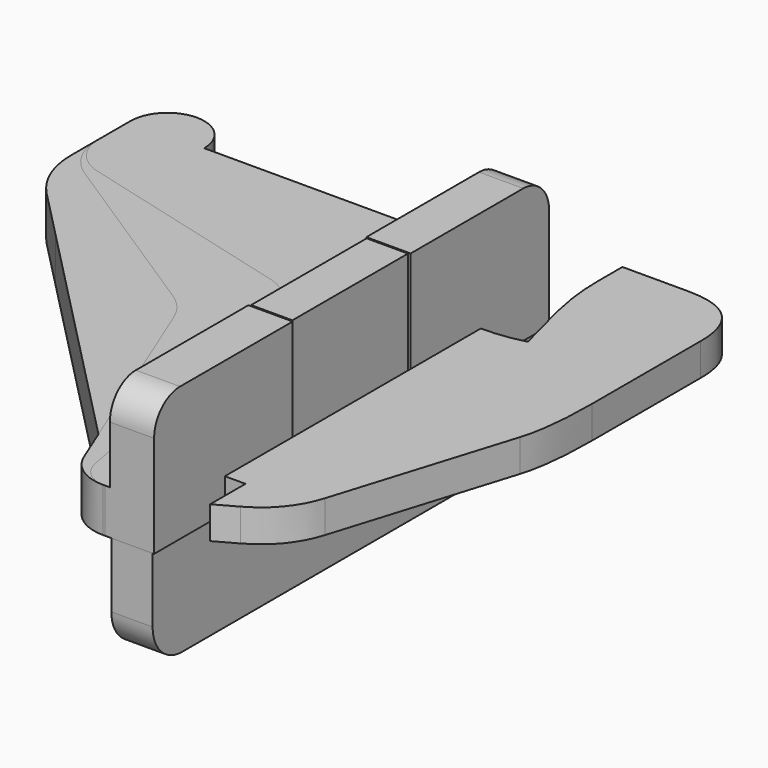
from build123d import *

# Parameters (mm, degrees)
PAD_DEPTH    = 2.2
SKETCH001_W  = 3
SKETCH001_H  = 11.75
PAD001_DEPTH = 6.9
FILLET_R     = 2.2
PAD002_DEPTH = 3
FILLET001_R  = 6
PAD003_DEPTH = 2.2
SKETCH004_W  = 3
SKETCH004_H  = 11.75
PAD004_DEPTH = 6.9
FILLET002_R  = 2.2
PAD005_DEPTH = 3
FILLET007_R  = 4
FILLET008_R  = 3
PAD006_DEPTH = 2.2
SKETCH007_W  = 3
SKETCH007_H  = 11.75
PAD007_DEPTH = 6.9
FILLET004_R  = 2.2
PAD008_DEPTH = 3
FILLET005_R  = 2
FILLET006_R  = 3
PAD009_START = 0.1
PAD009_DEPTH = 2.8
FILLET009_R  = 2.5


with BuildPart() as heavy:
    # Sketch → Pad (new body)
    with BuildSketch(Plane.XY):
        with BuildLine():
            Line((3, -16.6), (3, -6.6))
            Line((3, -6.6), (0, -6.6))
            Line((0, -6.6), (0, 0))
            Line((0, 0), (0, 5.15))
            Line((0, 5.15), (3, 5.15))
            Line((3, 5.15), (3, -0.65))
            ThreePointArc((3, -0.65), (4.462352, -0.561816), (5.9, -0.28))
            add(Edge.make_bspline(
                [(5.9, -0.28), (5.061626, 2.873724), (4.45, 4.820279), (4.45, 7.45)],
                knots=[0, 0, 0, 0, 1, 1, 1, 1], degree=3))
            Line((4.45, 7.45), (4.45, 9.55))
            Line((4.45, 9.55), (8.95, 9.55))
            add(Edge.make_bspline(
                [(8.95, 9.55), (13, 9.55), (13, 5.5)],
                knots=[0, 0, 0, 1, 1, 1], degree=2))
            Line((13, 5.5), (13, -3.7))
            add(Edge.make_bspline(
                [(13, -3.7), (13, -7.166449), (12.412182, -9.067731)],
                knots=[0, 0, 0, 1, 1, 1], degree=2))
            Line((12.412182, -9.067731), (8.72, -21.01))
            add(Edge.make_bspline(
                [(5.816198, -24.563372), (7.995686, -23.352775), (8.72, -21.01)],
                knots=[0, 0, 0, 1, 1, 1], degree=2))
            Line((5.816198, -24.563372), (4.4, -25.35))
            Line((4.4, -25.35), (4.4, -22.35))
            Line((4.4, -22.35), (3, -22.35))
            Line((3, -22.35), (3, -28.35))
            Line((3, -28.35), (0, -28.35))
            Line((0, -28.35), (0, -16.6))
            Line((0, -16.6), (3, -16.6))
        make_face()
    extrude(amount=PAD_DEPTH)

    # Sketch001 (on Face24 of Pad) → Pad001 (join)
    with BuildSketch(Plane.XY.offset(2.2)):
        with Locations((1.5, -22.475)):
            Rectangle(SKETCH001_W, SKETCH001_H)
        with Locations((1.5, -0.725)):
            Rectangle(SKETCH001_W, SKETCH001_H)
    extrude(amount=PAD001_DEPTH)

    # Fillet
    fillet_edges = [heavy.edges().sort_by_distance(p)[0] for p in [
        (1.5, 5.15, 9.1),
        (1.5, -28.35, 9.1),
    ]]
    fillet(fillet_edges, radius=FILLET_R)

    # Sketch002 → Pad002 (join)
    with BuildSketch(Plane.XY):
        with BuildLine():
            Line((0, 5.15), (-20.4, 5.15))
            ThreePointArc((-20.4, 5.15), (-22.9, 7.65), (-25.4, 5.15))
            Line((-25.4, 5.15), (-25.4, -2.35))
            Line((-20.4, -7.46811), (-25.4, -2.35))
            Line((-20.4, -7.46811), (0, -28.35))
            Line((0, 5.15), (0, -28.35))
        make_face()
    extrude(amount=PAD002_DEPTH)

    # Fillet001
    fillet001_edges = [heavy.edges().sort_by_distance(p)[0] for p in [
        (-25.4, -2.35, 1.5),
    ]]
    fillet(fillet001_edges, radius=FILLET001_R)


with BuildPart() as medium:
    # Sketch003 → Pad003 (new body)
    with BuildSketch(Plane.XY):
        with BuildLine():
            Line((3, -16.6), (3, -6.6))
            Line((3, -6.6), (0, -6.6))
            Line((0, -6.6), (0, 0))
            Line((0, 0), (0, 5.15))
            Line((0, 5.15), (3, 5.15))
            Line((3, 5.15), (3, -0.65))
            ThreePointArc((3, -0.65), (4.462352, -0.561816), (5.9, -0.28))
            add(Edge.make_bspline(
                [(5.9, -0.28), (5.061626, 2.873724), (4.45, 4.820279), (4.45, 7.45)],
                knots=[0, 0, 0, 0, 1, 1, 1, 1], degree=3))
            Line((4.45, 7.45), (4.45, 9.55))
            Line((4.45, 9.55), (8.95, 9.55))
            add(Edge.make_bspline(
                [(8.95, 9.55), (13, 9.55), (13, 5.5)],
                knots=[0, 0, 0, 1, 1, 1], degree=2))
            Line((13, 5.5), (13, -3.7))
            add(Edge.make_bspline(
                [(13, -3.7), (13, -7.166449), (12.412182, -9.067731)],
                knots=[0, 0, 0, 1, 1, 1], degree=2))
            Line((12.412182, -9.067731), (8.72, -21.01))
            add(Edge.make_bspline(
                [(5.816198, -24.563372), (7.995686, -23.352775), (8.72, -21.01)],
                knots=[0, 0, 0, 1, 1, 1], degree=2))
            Line((5.816198, -24.563372), (4.4, -25.35))
            Line((4.4, -25.35), (4.4, -22.35))
            Line((4.4, -22.35), (3, -22.35))
            Line((3, -22.35), (3, -28.35))
            Line((3, -28.35), (0, -28.35))
            Line((0, -28.35), (0, -16.6))
            Line((0, -16.6), (3, -16.6))
        make_face()
    extrude(amount=PAD003_DEPTH)

    # Sketch004 (on Face24 of Pad003) → Pad004 (join)
    with BuildSketch(Plane.XY.offset(2.2)):
        with Locations((1.5, -22.475)):
            Rectangle(SKETCH004_W, SKETCH004_H)
        with Locations((1.5, -0.725)):
            Rectangle(SKETCH004_W, SKETCH004_H)
    extrude(amount=PAD004_DEPTH)

    # Fillet002
    fillet002_edges = [medium.edges().sort_by_distance(p)[0] for p in [
        (1.5, 5.15, 9.1),
        (1.5, -28.35, 9.1),
    ]]
    fillet(fillet002_edges, radius=FILLET002_R)

    # Sketch005 → Pad005 (join)
    with BuildSketch(Plane.XY):
        with BuildLine():
            Line((0, 5.15), (-20.4, 5.15))
            ThreePointArc((-20.4, 5.15), (-22.9, 7.65), (-25.4, 5.15))
            Line((-25.4, 5.15), (-25.4, 0.15))
            Line((-20.4, -3.093091), (-25.4, 0.15))
            Line((-10.027719, -9.820741), (-20.4, -3.093091))
            Line((-2.5, -28.35), (-10.027719, -9.820741))
            Line((0, -28.35), (-2.5, -28.35))
            Line((0, 5.15), (0, -28.35))
        make_face()
    extrude(amount=PAD005_DEPTH)

    # Fillet007
    fillet007_edges = [medium.edges().sort_by_distance(p)[0] for p in [
        (-25.4, 0.15, 1.5),
        (-10.027719, -9.820741, 1.5),
    ]]
    fillet(fillet007_edges, radius=FILLET007_R)

    # Fillet008
    fillet008_edges = [medium.edges().sort_by_distance(p)[0] for p in [
        (-2.5, -28.35, 1.5),
    ]]
    fillet(fillet008_edges, radius=FILLET008_R)


with BuildPart() as light:
    # Sketch006 → Pad006 (new body)
    with BuildSketch(Plane.XY):
        with BuildLine():
            Line((3, -16.6), (3, -6.6))
            Line((3, -6.6), (0, -6.6))
            Line((0, -6.6), (0, 0))
            Line((0, 0), (0, 5.15))
            Line((0, 5.15), (3, 5.15))
            Line((3, 5.15), (3, -0.65))
            ThreePointArc((3, -0.65), (4.462352, -0.561816), (5.9, -0.28))
            add(Edge.make_bspline(
                [(5.9, -0.28), (5.061626, 2.873724), (4.45, 4.820279), (4.45, 7.45)],
                knots=[0, 0, 0, 0, 1, 1, 1, 1], degree=3))
            Line((4.45, 7.45), (4.45, 9.55))
            Line((4.45, 9.55), (8.95, 9.55))
            add(Edge.make_bspline(
                [(8.95, 9.55), (13, 9.55), (13, 5.5)],
                knots=[0, 0, 0, 1, 1, 1], degree=2))
            Line((13, 5.5), (13, -3.7))
            add(Edge.make_bspline(
                [(13, -3.7), (13, -7.166449), (12.412182, -9.067731)],
                knots=[0, 0, 0, 1, 1, 1], degree=2))
            Line((12.412182, -9.067731), (8.72, -21.01))
            add(Edge.make_bspline(
                [(5.816198, -24.563372), (7.995686, -23.352775), (8.72, -21.01)],
                knots=[0, 0, 0, 1, 1, 1], degree=2))
            Line((5.816198, -24.563372), (4.4, -25.35))
            Line((4.4, -25.35), (4.4, -22.35))
            Line((4.4, -22.35), (3, -22.35))
            Line((3, -22.35), (3, -28.35))
            Line((3, -28.35), (0, -28.35))
            Line((0, -28.35), (0, -16.6))
            Line((0, -16.6), (3, -16.6))
        make_face()
    extrude(amount=PAD006_DEPTH)

    # Sketch007 (on Face24 of Pad006) → Pad007 (join)
    with BuildSketch(Plane.XY.offset(2.2)):
        with Locations((1.5, -22.475)):
            Rectangle(SKETCH007_W, SKETCH007_H)
        with Locations((1.5, -0.725)):
            Rectangle(SKETCH007_W, SKETCH007_H)
    extrude(amount=PAD007_DEPTH)

    # Fillet004
    fillet004_edges = [light.edges().sort_by_distance(p)[0] for p in [
        (1.5, 5.15, 9.1),
        (1.5, -28.35, 9.1),
    ]]
    fillet(fillet004_edges, radius=FILLET004_R)

    # Sketch008 → Pad008 (join)
    with BuildSketch(Plane.XY):
        with BuildLine():
            Line((0, 5.15), (-20.4, 5.15))
            ThreePointArc((-20.4, 5.15), (-22.9, 7.65), (-25.4, 5.15))
            Line((-25.4, 5.15), (-25.4, 0.15))
            Line((-20.4, -1.17643), (-25.4, 0.15))
            Line((-6.425528, -4.88366), (-20.4, -1.17643))
            Line((-2, -28.35), (-6.425528, -4.88366))
            Line((0, -28.35), (-2, -28.35))
            Line((0, 5.15), (0, -28.35))
        make_face()
    extrude(amount=PAD008_DEPTH)

    # Fillet005
    fillet005_edges = [light.edges().sort_by_distance(p)[0] for p in [
        (-2, -28.35, 1.5),
    ]]
    fillet(fillet005_edges, radius=FILLET005_R)

    # Fillet006
    fillet006_edges = [light.edges().sort_by_distance(p)[0] for p in [
        (-6.425528, -4.88366, 1.5),
        (-25.4, 0.15, 1.5),
    ]]
    fillet(fillet006_edges, radius=FILLET006_R)


with BuildPart() as retainer:
    # Sketch009 → Pad009 (new body)
    with BuildSketch(Plane.YZ.offset(PAD009_START)):
        Polygon((-28.35, 0), (-28.35, -6.9), (5.15, -6.9), (5.15, 0), (-6.7, 0), (-6.7, 9.1), (-16.5, 9.1), (-16.5, 0), align=None)
    extrude(amount=PAD009_DEPTH)

    # Fillet009
    fillet009_edges = [retainer.edges().sort_by_distance(p)[0] for p in [
        (1.5, -28.35, -6.9),
        (1.5, 5.15, -6.9),
    ]]
    fillet(fillet009_edges, radius=FILLET009_R)


solid = Compound([heavy.part, medium.part, light.part, retainer.part])
